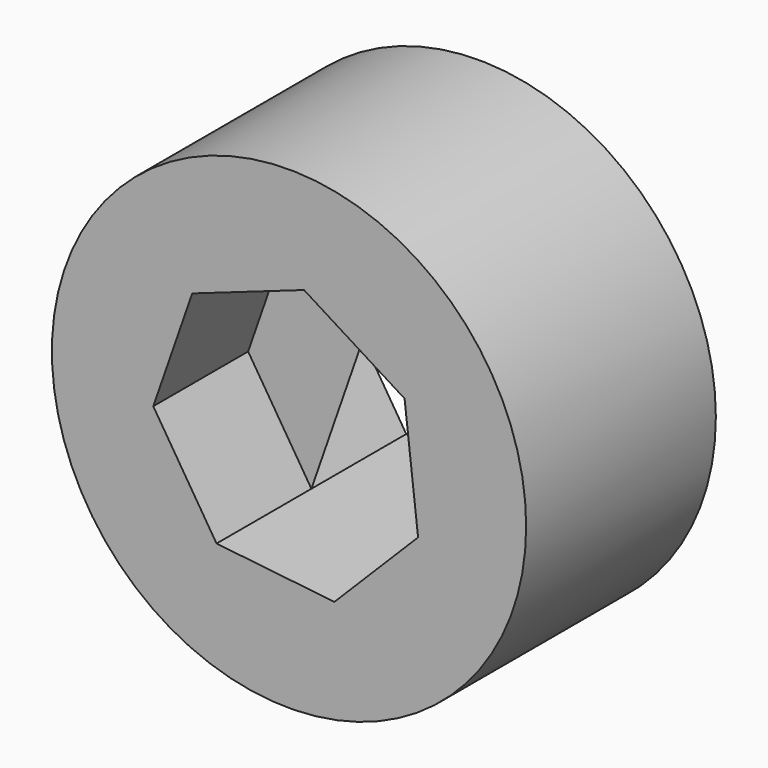
from build123d import *

# Parameters (mm, degrees)
F0_R     = 25.4
F1_DEPTH = 25.4
F3_DEPTH = 12.7
F4_DEPTH = 50.8


with BuildPart() as f1:
    # F0 (on Front) → F1 (new body)
    with BuildSketch(Plane.XZ):
        with Locations((-42.658649, 34.146946)):
            Circle(F0_R)
    extrude(amount=F1_DEPTH)

    # F2 (on face) → F3 (cut)
    with BuildSketch(Plane.XZ.offset(25.4)):
        Polygon((-53.026801, 44.476137), (-57.198773, 32.480944), (-50.421735, 21.740285), (-37.798936, 20.342094), (-28.8356, 29.339239), (-30.281302, 41.956685), (-41.047399, 48.693238), align=None)
    extrude(amount=-F3_DEPTH, mode=Mode.SUBTRACT)

    # F3_face (on face) → F4 (cut)
    with BuildSketch(Plane(origin=(-42.658649, -12.7, 34.146946), x_dir=(1, 0, 0), z_dir=(0, -1, 0))):
        Polygon((12.377347, 7.809739), (1.61125, 14.546292), (-10.368151, 10.329191), (-14.540123, -1.666002), (-7.763086, -12.406661), (4.859713, -13.804852), (13.823049, -4.807707), align=None)
    extrude(amount=-F4_DEPTH, mode=Mode.SUBTRACT)


solid = f1.part
